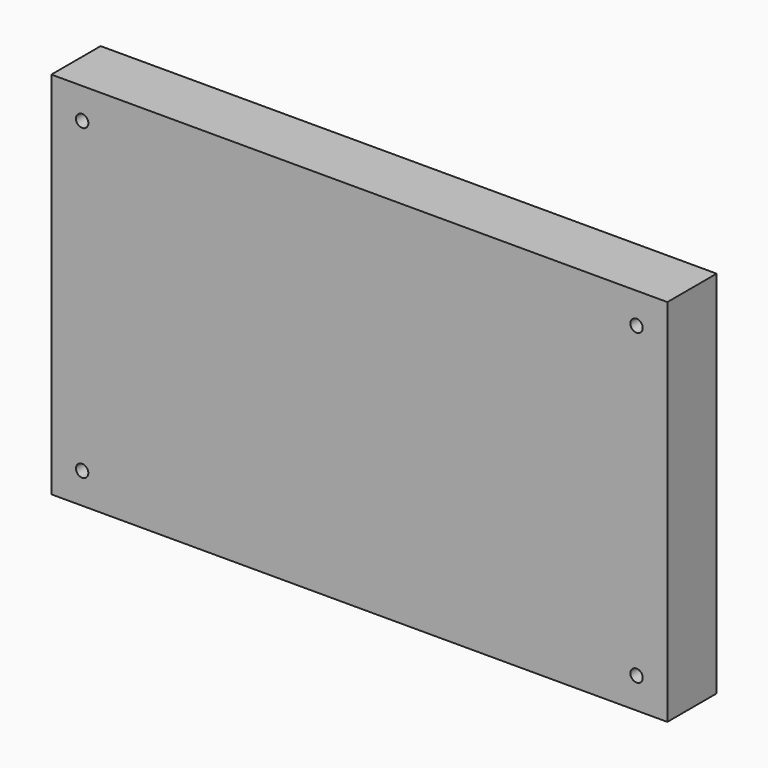
from build123d import *

# Parameters (mm, degrees)
F0_W     = 254
F0_H     = 152.4
F1_DEPTH = 25.4
F3_D     = 5.1054


with BuildPart() as f1:
    # F0 (on Front) → F1 (new body)
    with BuildSketch(Plane.XZ):
        with Locations((127, 76.2)):
            Rectangle(F0_W, F0_H)
    extrude(amount=F1_DEPTH)

    # F3 (through all)
    with Locations(Plane.XZ.offset(25.4)):
        with Locations((12.7, 139.7), (241.3, 139.7), (241.3, 12.7), (12.7, 12.7)):
            Hole(F3_D / 2)


solid = f1.part
